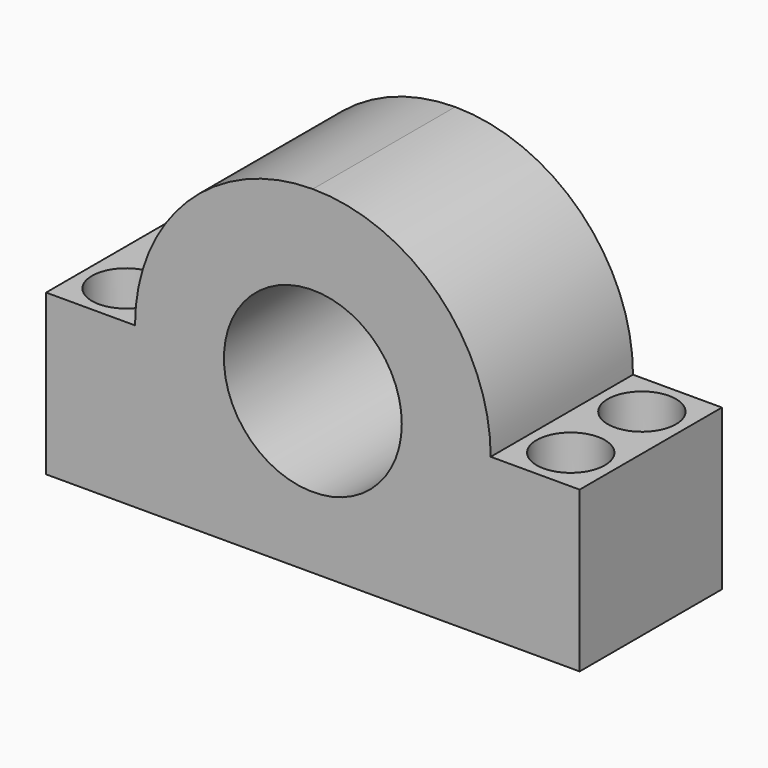
from build123d import *

# Parameters (mm, degrees)
F0_W           = 76.2
F0_H           = 50.8
F1_DEPTH       = 25.4
F2_R           = 12.7
F3_DEPTH       = 32.766
F5_DEPTH       = 25.4
F7_D           = 5.5
F7_DEPTH       = 254
F7_CBORE_D     = 9.75
F7_CBORE_DEPTH = 15
F7_TIP         = 1.6523667023
F8_DEPTH       = 2.54


with BuildPart() as f1:
    # F0 (on Front) → F1 (new body)
    with BuildSketch(Plane.XZ):
        Rectangle(F0_W, F0_H)
    extrude(amount=F1_DEPTH)

    # F2 (on face) → F3 (cut)
    with BuildSketch(Plane.XZ.offset(25.4)):
        Circle(F2_R)
    extrude(amount=-F3_DEPTH, mode=Mode.SUBTRACT)

    # F4 (on face) → F5 (cut)
    with BuildSketch(Plane.XZ.offset(25.4)):
        with BuildLine():
            ThreePointArc((1.5e-09, 25.4), (17.9605122427, 17.9605122416), (25.4, 0))
            Line((25.4, 0), (38.1, 0))
            Line((38.1, 0), (38.1, 25.4))
            Line((38.1, 25.4), (1.5e-09, 25.4))
        make_face()
        with BuildLine():
            ThreePointArc((-25.4, 0), (-17.9605122416, 17.9605122427), (1.5e-09, 25.4))
            Line((1.5e-09, 25.4), (-38.1, 25.4))
            Line((-38.1, 25.4), (-38.1, 0))
            Line((-38.1, 0), (-25.4, 0))
        make_face()
    extrude(amount=-F5_DEPTH, mode=Mode.SUBTRACT)

    # F7
    with Locations(Plane.XY):
        with Locations((-31.75, -6.35), (-31.75, -19.05), (31.75, -6.35), (31.75, -19.05)):
            CounterBoreHole(F7_D / 2, F7_CBORE_D / 2, F7_CBORE_DEPTH, depth=F7_DEPTH)
            with Locations((0, 0, -(F7_DEPTH + F7_TIP / 2))):  # 118° drill point
                Cone(0, F7_D / 2, F7_TIP, mode=Mode.SUBTRACT)

    # F8 (cut): a face of the model
    f8_faces = [f1.faces().sort_by_distance(p)[0] for p in [
        (0, -12.7, -25.4),
    ]]
    extrude(f8_faces, amount=-F8_DEPTH, mode=Mode.SUBTRACT)


solid = f1.part
